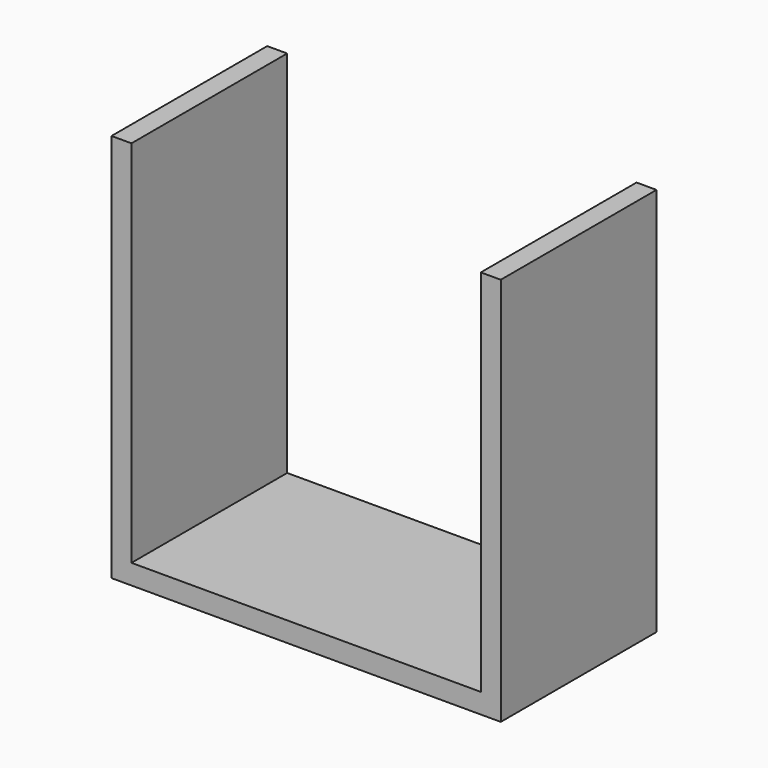
from build123d import *

# Parameters (mm, degrees)
PAD_DEPTH = 10


with BuildPart() as part:
    # Sketch (on XZ_Plane of Origin) → Pad (new body)
    with BuildSketch(Plane.XZ):
        Polygon((-8.975, 8.975), (-8.975, -8.975), (8.975, -8.975), (8.975, 8.975), (8.975, 10), (10, 10), (10, -10), (-10, -10), (-10, 10), (-8.975, 10), align=None)
    extrude(amount=PAD_DEPTH)


solid = part.part
